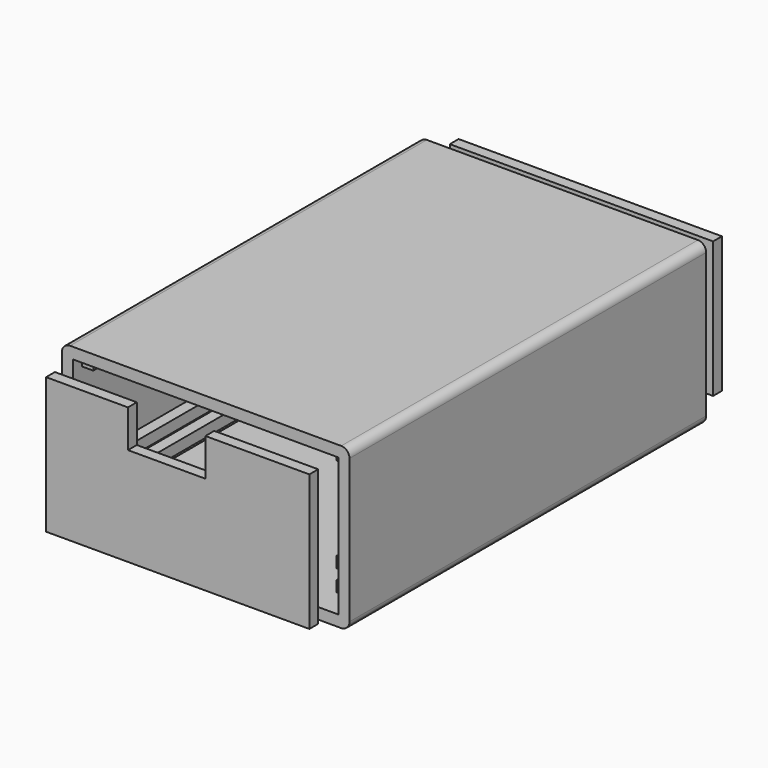
from build123d import *

# Parameters (mm, degrees)
F1_DEPTH = 40.3
F0_W     = 2
F0_H     = 2
F2_DEPTH = 38.2
F4_START = 2.2
F3_W     = 23.8
F3_H     = 2
F4_DEPTH = 24.6
F5_W     = 14
F5_H     = 6.9
F6_DEPTH = 46.8
F7_START = 2.2
F7_DEPTH = 24.6
F8_R     = 2.4
F9_DEPTH = 48


with BuildPart() as f1:
    # F0 (on Front) → F1 (new body, symmetric)
    with BuildSketch(Plane.XZ):
        with BuildLine():
            Line((24.5, 29), (-24.5, 29))
            ThreePointArc((-24.5, 29), (-25.5606601718, 28.5606601718), (-26, 27.5))
            Line((-26, 27.5), (-26, 1.5))
            ThreePointArc((-26, 1.5), (-25.5606601718, 0.4393398282), (-24.5, 0))
            Line((-24.5, 0), (24.5, 0))
            ThreePointArc((24.5, 0), (25.5606601718, 0.4393398282), (26, 1.5))
            Line((26, 1.5), (26, 27.5))
            ThreePointArc((26, 27.5), (25.5606601718, 28.5606601718), (24.5, 29))
        make_face()
        Polygon((-24, 25), (-24, 27), (-22, 27), (22, 27), (24, 27), (24, 25), (24, 9.85), (24, 7.85), (24, 6), (24, 4), (24, 2), (-24, 2), (-24, 4), (-24, 6), (-24, 7.85), (-24, 9.85), align=None, mode=Mode.SUBTRACT)
    extrude(amount=F1_DEPTH, both=True)

    # F0 (on Front) → F2 (join, symmetric)
    with BuildSketch(Plane.XZ):
        with Locations((-23, 8.85)):
            Rectangle(F0_W, F0_H)
        with Locations((-23, 5)):
            Rectangle(F0_W, F0_H)
        with Locations((23, 8.85)):
            Rectangle(F0_W, F0_H)
        with Locations((23, 5)):
            Rectangle(F0_W, F0_H)
        with Locations((-23, 26)):
            Rectangle(F0_W, F0_H)
        with Locations((23, 26)):
            Rectangle(F0_W, F0_H)
    extrude(amount=F2_DEPTH, both=True)


with BuildPart() as f4:
    # F3 (on Top) → F4 (new body)
    with BuildSketch(Plane.XY.offset(F4_START)):
        with Locations((-11.9, -45.6112829745)):
            Rectangle(F3_W, F3_H)
        with Locations((11.9, -45.6112829745)):
            Rectangle(F3_W, F3_H)
    extrude(amount=F4_DEPTH)

    # F5 (on Front) → F6 (cut)
    with BuildSketch(Plane.XZ):
        with Locations((-2, 23.45)):
            Rectangle(F5_W, F5_H)
    extrude(amount=F6_DEPTH, mode=Mode.SUBTRACT)


with BuildPart() as f7:
    # F3 (on Top) → F7 (new body)
    with BuildSketch(Plane.XY.offset(F7_START)):
        with Locations((-11.9, 45.6112829745)):
            Rectangle(F3_W, F3_H)
        with Locations((11.9, 45.6112829745)):
            Rectangle(F3_W, F3_H)
    extrude(amount=F7_DEPTH)

    # F8 (on Front) → F9 (cut)
    with BuildSketch(Plane.XZ):
        with Locations((0, 13.84)):
            Circle(F8_R)
    extrude(amount=-F9_DEPTH, mode=Mode.SUBTRACT)


solid = Compound([f1.part, f4.part, f7.part])
